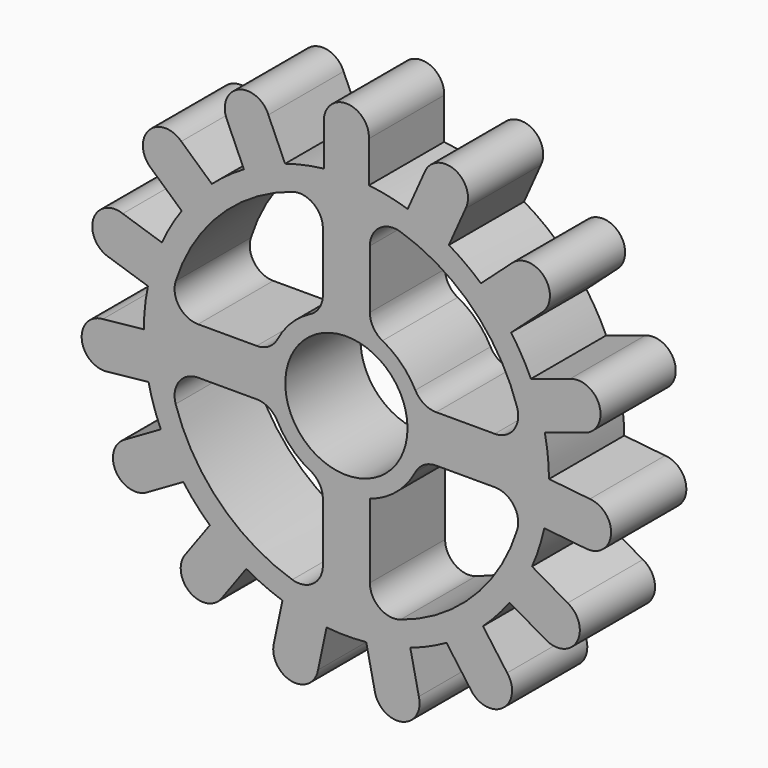
from build123d import *

# Parameters (mm, degrees)
F0_R     = 6.5
F1_DEPTH = 5
F3_DEPTH = 10


with BuildPart() as f1:
    # F0 (on Front) → F1 (new body, symmetric)
    with BuildSketch(Plane.XZ):
        with BuildLine():
            Line((-12.679406, 22.584124), (-10.90092, 18.589579))
            ThreePointArc((-10.90092, 18.589579), (-12.666772, 17.434316), (-14.311171, 16.111887))
            Line((-14.311171, 16.111887), (-17.560627, 19.03771))
            ThreePointArc((-17.560627, 19.03771), (-21.030999, 18.936396), (-20.769004, 15.474445))
            Line((-20.769004, 15.474445), (-17.519549, 12.548622))
            ThreePointArc((-17.519549, 12.548622), (-18.662847, 10.775), (-19.6272, 8.898063))
            Line((-19.6272, 8.898063), (-23.785765, 10.249263))
            ThreePointArc((-23.785765, 10.249263), (-26.914899, 8.745181), (-25.267454, 5.689094))
            Line((-25.267454, 5.689094), (-21.108888, 4.337894))
            ThreePointArc((-21.108888, 4.337894), (-21.431947, 2.252588), (-21.549508, 0.145684))
            Line((-21.549508, 0.145684), (-25.898128, -0.311375))
            ThreePointArc((-25.898128, -0.311375), (-28.14497, -2.958156), (-25.39693, -5.079953))
            Line((-25.39693, -5.079953), (-21.04831, -4.622895))
            ThreePointArc((-21.04831, -4.622895), (-20.495268, -6.659316), (-19.74571, -8.631886))
            Line((-19.74571, -8.631886), (-23.53247, -10.818173))
            ThreePointArc((-23.53247, -10.818173), (-24.508519, -14.15), (-21.135047, -14.97063))
            Line((-21.135047, -14.97063), (-17.348287, -12.784343))
            ThreePointArc((-17.348287, -12.784343), (-16.014771, -14.419765), (-14.527699, -15.916924))
            Line((-14.527699, -15.916924), (-17.097834, -19.45441))
            ThreePointArc((-17.097834, -19.45441), (-16.634323, -22.895181), (-13.218722, -22.27275))
            Line((-13.218722, -22.27275), (-10.648588, -18.735263))
            ThreePointArc((-10.648588, -18.735263), (-8.765175, -19.686905), (-6.797718, -20.449781))
            Line((-6.797718, -20.449781), (-7.706827, -24.726804))
            ThreePointArc((-7.706827, -24.726804), (-5.883901, -27.681577), (-3.01676, -25.723708))
            Line((-3.01676, -25.723708), (-2.107651, -21.446685))
            ThreePointArc((-2.107651, -21.446685), (0, -21.55), (2.107651, -21.446685))
            Line((2.107651, -21.446685), (3.01676, -25.723708))
            ThreePointArc((3.01676, -25.723708), (5.883901, -27.681577), (7.706827, -24.726804))
            Line((7.706827, -24.726804), (6.797718, -20.449781))
            ThreePointArc((6.797718, -20.449781), (8.765175, -19.686905), (10.648588, -18.735263))
            Line((10.648588, -18.735263), (13.218722, -22.27275))
            ThreePointArc((13.218722, -22.27275), (16.634323, -22.895181), (17.097834, -19.45441))
            Line((17.097834, -19.45441), (14.527699, -15.916924))
            ThreePointArc((14.527699, -15.916924), (16.014771, -14.419765), (17.348287, -12.784343))
            Line((17.348287, -12.784343), (21.135047, -14.97063))
            ThreePointArc((21.135047, -14.97063), (24.508519, -14.15), (23.53247, -10.818173))
            Line((23.53247, -10.818173), (19.74571, -8.631886))
            ThreePointArc((19.74571, -8.631886), (20.495268, -6.659316), (21.04831, -4.622895))
            Line((21.04831, -4.622895), (25.39693, -5.079953))
            ThreePointArc((25.39693, -5.079953), (28.14497, -2.958156), (25.898128, -0.311375))
            Line((25.898128, -0.311375), (21.549508, 0.145684))
            ThreePointArc((21.549508, 0.145684), (21.431947, 2.252588), (21.108888, 4.337894))
            Line((21.108888, 4.337894), (25.267454, 5.689094))
            ThreePointArc((25.267454, 5.689094), (26.914899, 8.745181), (23.785765, 10.249263))
            Line((23.785765, 10.249263), (19.6272, 8.898063))
            ThreePointArc((19.6272, 8.898063), (18.662847, 10.775), (17.519549, 12.548622))
            Line((17.519549, 12.548622), (20.769004, 15.474445))
            ThreePointArc((20.769004, 15.474445), (21.030999, 18.936396), (17.560627, 19.03771))
            Line((17.560627, 19.03771), (14.311171, 16.111887))
            ThreePointArc((14.311171, 16.111887), (12.666772, 17.434316), (10.90092, 18.589579))
            Line((10.90092, 18.589579), (12.679406, 22.584124))
            ThreePointArc((12.679406, 22.584124), (11.510647, 25.853336), (8.299097, 24.534364))
            Line((8.299097, 24.534364), (6.520611, 20.539818))
            ThreePointArc((6.520611, 20.539818), (4.480497, 21.079081), (2.397423, 21.416229))
            Line((2.397423, 21.416229), (2.397423, 25.788803))
            ThreePointArc((2.397423, 25.788803), (0, 28.3), (-2.397423, 25.788803))
            Line((-2.397423, 25.788803), (-2.397423, 21.416229))
            ThreePointArc((-2.397423, 21.416229), (-4.480497, 21.079081), (-6.520611, 20.539818))
            Line((-6.520611, 20.539818), (-8.299097, 24.534364))
            ThreePointArc((-8.299097, 24.534364), (-11.510647, 25.853336), (-12.679406, 22.584124))
        make_face()
        Circle(F0_R, mode=Mode.SUBTRACT)
    extrude(amount=F1_DEPTH, both=True)

    # F2 (on face) → F3 (cut)
    with BuildSketch(Plane.XZ.offset(5)):
        with BuildLine():
            ThreePointArc((-5.755287, 18.159823), (-13.470384, 13.470384), (-18.159823, 5.755287))
            ThreePointArc((-18.159823, 5.755287), (-17.793847, 3.523216), (-15.776644, 2.5))
            Line((-15.776644, 2.5), (-9.54669, 2.5))
            ThreePointArc((-9.54669, 2.5), (-8.252423, 2.861104), (-7.332049, 3.8401))
            ThreePointArc((-7.332049, 3.8401), (-5.852577, 5.852577), (-3.8401, 7.332049))
            ThreePointArc((-3.8401, 7.332049), (-2.861104, 8.252423), (-2.5, 9.54669))
            Line((-2.5, 9.54669), (-2.5, 15.776644))
            ThreePointArc((-2.5, 15.776644), (-3.523216, 17.793847), (-5.755287, 18.159823))
        make_face()
        with BuildLine():
            ThreePointArc((5.755287, 18.159823), (3.523216, 17.793847), (2.5, 15.776644))
            Line((2.5, 15.776644), (2.5, 9.54669))
            ThreePointArc((2.5, 9.54669), (2.861104, 8.252423), (3.8401, 7.332049))
            ThreePointArc((3.8401, 7.332049), (5.852577, 5.852577), (7.332049, 3.8401))
            ThreePointArc((7.332049, 3.8401), (8.252423, 2.861104), (9.54669, 2.5))
            Line((9.54669, 2.5), (15.776644, 2.5))
            ThreePointArc((15.776644, 2.5), (17.793847, 3.523216), (18.159823, 5.755287))
            ThreePointArc((18.159823, 5.755287), (13.470384, 13.470384), (5.755287, 18.159823))
        make_face()
        with BuildLine():
            Line((-9.54669, -2.5), (-15.776644, -2.5))
            ThreePointArc((-15.776644, -2.5), (-17.793847, -3.523216), (-18.159823, -5.755287))
            ThreePointArc((-18.159823, -5.755287), (-13.470384, -13.470384), (-5.755287, -18.159823))
            ThreePointArc((-5.755287, -18.159823), (-3.523216, -17.793847), (-2.5, -15.776644))
            Line((-2.5, -15.776644), (-2.5, -9.54669))
            ThreePointArc((-2.5, -9.54669), (-2.861104, -8.252423), (-3.8401, -7.332049))
            ThreePointArc((-3.8401, -7.332049), (-5.852577, -5.852577), (-7.332049, -3.8401))
            ThreePointArc((-7.332049, -3.8401), (-8.252423, -2.861104), (-9.54669, -2.5))
        make_face()
        with BuildLine():
            Line((2.5, -7.890204), (2.5, -15.776644))
            ThreePointArc((2.5, -15.776644), (3.523216, -17.793847), (5.755287, -18.159823))
            ThreePointArc((5.755287, -18.159823), (13.470384, -13.470384), (18.159823, -5.755287))
            ThreePointArc((18.159823, -5.755287), (17.793847, -3.523216), (15.776644, -2.5))
            Line((15.776644, -2.5), (9.54669, -2.5))
            ThreePointArc((9.54669, -2.5), (8.252423, -2.861104), (7.332049, -3.8401))
            ThreePointArc((7.332049, -3.8401), (5.316778, -6.343278), (2.5, -7.890204))
        make_face()
    extrude(amount=-F3_DEPTH, mode=Mode.SUBTRACT)


solid = f1.part
